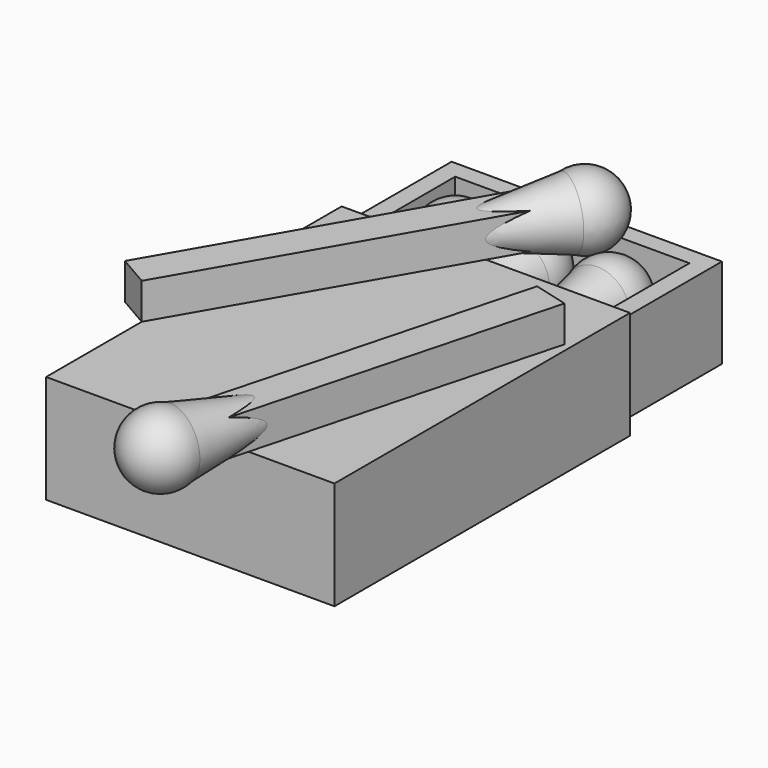
from build123d import *

# Parameters (mm, degrees)
BOX001_W                  = 26
BOX001_H                  = 36
BOX001_DEPTH              = 10
BOX_W                     = 30
BOX_H                     = 40
BOX_DEPTH                 = 10
BOX003_W                  = 30
BOX003_H                  = 37
BOX003_DEPTH              = 10
BOX002_W                  = 32
BOX002_H                  = 41
BOX002_DEPTH              = 12
FUSION_PLACEMENT_ANGLE    = 270
BOX004_W                  = 4
BOX004_H                  = 40
BOX004_DEPTH              = 4
FUSION002_PLACEMENT_ANGLE = 90
BOX005_W                  = 4
BOX005_H                  = 40
BOX005_DEPTH              = 4
FUSION004_PLACEMENT_ANGLE = 90
BOX006_W                  = 4
BOX006_H                  = 40
BOX006_DEPTH              = 4
FUSION006_PLACEMENT_ANGLE = 90
BOX007_W                  = 4
BOX007_H                  = 40
BOX007_DEPTH              = 4
FUSION007_PLACEMENT_ANGLE = 330
BOX008_W                  = 4
BOX008_H                  = 40
BOX008_DEPTH              = 4
FUSION008_PLACEMENT_ANGLE = 90
FUSION009_PLACEMENT_ANGLE = 165


with BuildPart() as box001:
    # Box001 → Box001 (new body)
    with BuildSketch(Plane(origin=(2, 2, 2), x_dir=(1, 0, 0), z_dir=(0, 0, 1))):
        with Locations((13, 18)):
            Rectangle(BOX001_W, BOX001_H)
    extrude(amount=BOX001_DEPTH)


with BuildPart() as cut:
    # Box → Box (new body)
    with BuildSketch(Plane.XY):
        with Locations((15, 20)):
            Rectangle(BOX_W, BOX_H)
    extrude(amount=BOX_DEPTH)

    # Cut: cut Box001
    add(box001.part, mode=Mode.SUBTRACT)


with BuildPart() as box003:
    # Box003 → Box003 (new body)
    with BuildSketch(Plane(origin=(-38, -9, 1), x_dir=(1, 0, 0), z_dir=(0, 0, 1))):
        with Locations((15, 18.5)):
            Rectangle(BOX003_W, BOX003_H)
    extrude(amount=BOX003_DEPTH)


with BuildPart() as cut001:
    # Box002 → Box002 (new body)
    with BuildSketch(Plane(origin=(-39, -15, 0), x_dir=(1, 0, 0), z_dir=(0, 0, 1))):
        with Locations((16, 20.5)):
            Rectangle(BOX002_W, BOX002_H)
    extrude(amount=BOX002_DEPTH)

    # Cut001: cut Box003
    add(box003.part, mode=Mode.SUBTRACT)


with BuildPart() as cut001_1:
    # Cut001 placement: moved
    add(cut001.part.moved(Location((38, 0, -1))))


with BuildPart() as cone:
    # Cone → Cone (revolve)
    with BuildSketch(Plane(origin=(0, 0, 20), x_dir=(1, 0, 0), z_dir=(0, -1, 0))):
        Polygon((0, 0), (2, 0), (4, 10), (0, 10), align=None)
    revolve(axis=Axis((0, 0, 20), (0, 0, 1)))


with BuildPart() as fusion:
    # Sphere → Sphere (revolve)
    with BuildSketch(Plane(origin=(0, 0, 30), x_dir=(1, 0, 0), z_dir=(0, -1, 0))):
        with BuildLine():
            ThreePointArc((0, -4), (4, 0), (0, 4))
            Line((0, 4), (0, -4))
        make_face()
    revolve(axis=Axis((0, 0, 30), (0, 0, 1)))

    # Fusion: union Cone
    add(cone.part)


with BuildPart() as fusion_1:
    # Fusion placement: moved
    add(fusion.part.moved(Location((6, 3, 18))).rotate(Axis((6, 3, 18), (1, 0, 0)), FUSION_PLACEMENT_ANGLE))


with BuildPart() as fusion001:
    # Box004 → Box004 (new body)
    with BuildSketch(Plane(origin=(4, -9, 16), x_dir=(1, 0, 0), z_dir=(0, 0, 1))):
        with Locations((2, 20)):
            Rectangle(BOX004_W, BOX004_H)
    extrude(amount=BOX004_DEPTH)

    # Fusion001: union Fusion
    add(fusion_1.part)


with BuildPart() as fusion001_1:
    # Fusion001 placement: moved
    add(fusion001.part.moved(Location((0, 0, -11))))


with BuildPart() as cone001:
    # Cone001 → Cone001 (revolve)
    with BuildSketch(Plane(origin=(0, 0, 20), x_dir=(1, 0, 0), z_dir=(0, -1, 0))):
        Polygon((0, 0), (2, 0), (4, 10), (0, 10), align=None)
    revolve(axis=Axis((0, 0, 20), (0, 0, 1)))


with BuildPart() as fusion002:
    # Sphere001 → Sphere001 (revolve)
    with BuildSketch(Plane(origin=(0, 0, 30), x_dir=(1, 0, 0), z_dir=(0, -1, 0))):
        with BuildLine():
            ThreePointArc((0, -4), (4, 0), (0, 4))
            Line((0, 4), (0, -4))
        make_face()
    revolve(axis=Axis((0, 0, 30), (0, 0, 1)))

    # Fusion002: union Cone001
    add(cone001.part)


with BuildPart() as fusion002_1:
    # Fusion002 placement: moved
    add(fusion002.part.moved(Location((6, 3, 18))).rotate(Axis((6, 3, 18), (-1, 0, 0)), FUSION002_PLACEMENT_ANGLE))


with BuildPart() as fusion003:
    # Box005 → Box005 (new body)
    with BuildSketch(Plane(origin=(4, -9, 16), x_dir=(1, 0, 0), z_dir=(0, 0, 1))):
        with Locations((2, 20)):
            Rectangle(BOX005_W, BOX005_H)
    extrude(amount=BOX005_DEPTH)

    # Fusion003: union Fusion002
    add(fusion002_1.part)


with BuildPart() as fusion003_1:
    # Fusion003 placement: moved
    add(fusion003.part.moved(Location((8, 0, -11))))


with BuildPart() as cone002:
    # Cone002 → Cone002 (revolve)
    with BuildSketch(Plane(origin=(0, 0, 20), x_dir=(1, 0, 0), z_dir=(0, -1, 0))):
        Polygon((0, 0), (2, 0), (4, 10), (0, 10), align=None)
    revolve(axis=Axis((0, 0, 20), (0, 0, 1)))


with BuildPart() as fusion004:
    # Sphere002 → Sphere002 (revolve)
    with BuildSketch(Plane(origin=(0, 0, 30), x_dir=(1, 0, 0), z_dir=(0, -1, 0))):
        with BuildLine():
            ThreePointArc((0, -4), (4, 0), (0, 4))
            Line((0, 4), (0, -4))
        make_face()
    revolve(axis=Axis((0, 0, 30), (0, 0, 1)))

    # Fusion004: union Cone002
    add(cone002.part)


with BuildPart() as fusion004_1:
    # Fusion004 placement: moved
    add(fusion004.part.moved(Location((6, 3, 18))).rotate(Axis((6, 3, 18), (-1, 0, 0)), FUSION004_PLACEMENT_ANGLE))


with BuildPart() as fusion005:
    # Box006 → Box006 (new body)
    with BuildSketch(Plane(origin=(4, -9, 16), x_dir=(1, 0, 0), z_dir=(0, 0, 1))):
        with Locations((2, 20)):
            Rectangle(BOX006_W, BOX006_H)
    extrude(amount=BOX006_DEPTH)

    # Fusion005: union Fusion004
    add(fusion004_1.part)


with BuildPart() as fusion005_1:
    # Fusion005 placement: moved
    add(fusion005.part.moved(Location((17, 0, -11))))


with BuildPart() as cone003:
    # Cone003 → Cone003 (revolve)
    with BuildSketch(Plane(origin=(0, 0, 20), x_dir=(1, 0, 0), z_dir=(0, -1, 0))):
        Polygon((0, 0), (2, 0), (4, 10), (0, 10), align=None)
    revolve(axis=Axis((0, 0, 20), (0, 0, 1)))


with BuildPart() as fusion006:
    # Sphere003 → Sphere003 (revolve)
    with BuildSketch(Plane(origin=(0, 0, 30), x_dir=(1, 0, 0), z_dir=(0, -1, 0))):
        with BuildLine():
            ThreePointArc((0, -4), (4, 0), (0, 4))
            Line((0, 4), (0, -4))
        make_face()
    revolve(axis=Axis((0, 0, 30), (0, 0, 1)))

    # Fusion006: union Cone003
    add(cone003.part)


with BuildPart() as fusion006_1:
    # Fusion006 placement: moved
    add(fusion006.part.moved(Location((6, 3, 18))).rotate(Axis((6, 3, 18), (-1, 0, 0)), FUSION006_PLACEMENT_ANGLE))


with BuildPart() as fusion007:
    # Box007 → Box007 (new body)
    with BuildSketch(Plane(origin=(4, -9, 16), x_dir=(1, 0, 0), z_dir=(0, 0, 1))):
        with Locations((2, 20)):
            Rectangle(BOX007_W, BOX007_H)
    extrude(amount=BOX007_DEPTH)

    # Fusion007: union Fusion006
    add(fusion006_1.part)


with BuildPart() as fusion007_1:
    # Fusion007 placement: moved
    add(fusion007.part.moved(Location((-3.428203, 10.062178, -5))).rotate(Axis((-3.428203, 10.062178, -5), (0, 0, 1)), FUSION007_PLACEMENT_ANGLE))


with BuildPart() as box008:
    # Box008 → Box008 (new body)
    with BuildSketch(Plane(origin=(4, -9, 16), x_dir=(1, 0, 0), z_dir=(0, 0, 1))):
        with Locations((2, 20)):
            Rectangle(BOX008_W, BOX008_H)
    extrude(amount=BOX008_DEPTH)


with BuildPart() as cone004:
    # Cone004 → Cone004 (revolve)
    with BuildSketch(Plane(origin=(0, 0, 20), x_dir=(1, 0, 0), z_dir=(0, -1, 0))):
        Polygon((0, 0), (2, 0), (4, 10), (0, 10), align=None)
    revolve(axis=Axis((0, 0, 20), (0, 0, 1)))


with BuildPart() as fusion009:
    # Sphere004 → Sphere004 (revolve)
    with BuildSketch(Plane(origin=(0, 0, 30), x_dir=(1, 0, 0), z_dir=(0, -1, 0))):
        with BuildLine():
            ThreePointArc((0, -4), (4, 0), (0, 4))
            Line((0, 4), (0, -4))
        make_face()
    revolve(axis=Axis((0, 0, 30), (0, 0, 1)))

    # Fusion008: union Cone004
    add(cone004.part)


with BuildPart() as fusion009_1:
    # Fusion008 placement: moved
    add(fusion009.part.moved(Location((6, 3, 18))).rotate(Axis((6, 3, 18), (-1, 0, 0)), FUSION008_PLACEMENT_ANGLE))

    # Fusion009: union Box008
    add(box008.part)


with BuildPart() as fusion009_2:
    # Fusion009 placement: moved
    add(fusion009_1.part.moved(Location((31.792635, 8.106344, -5))).rotate(Axis((31.792635, 8.106344, -5), (0, 0, 1)), FUSION009_PLACEMENT_ANGLE))


solid = Compound([cut.part, cut001_1.part, fusion001_1.part, fusion003_1.part, fusion005_1.part, fusion007_1.part, fusion009_2.part])
